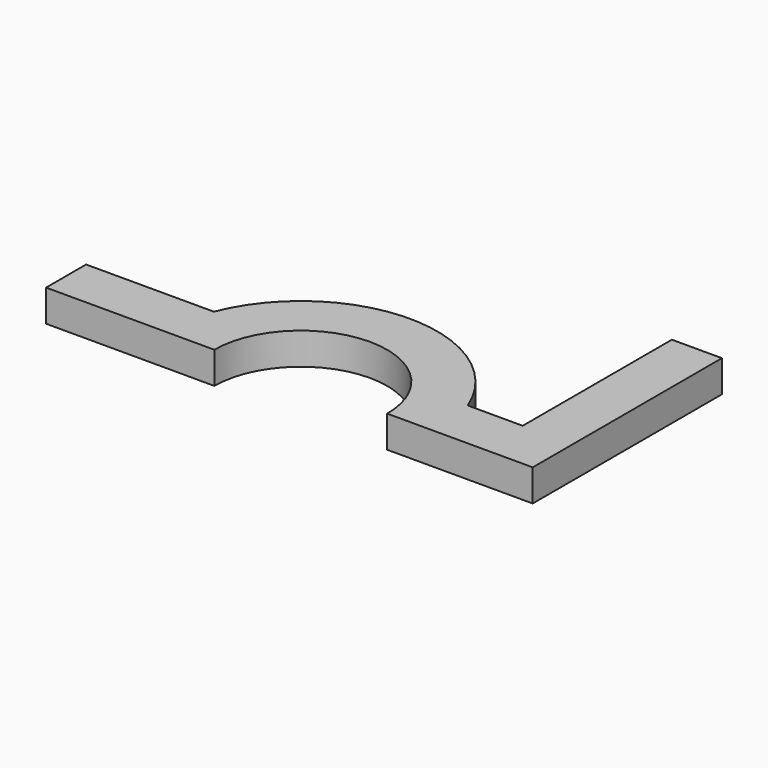
from build123d import *

# Parameters (mm, degrees)
F0_W     = 279.4
F0_H     = 1041.4
F1_DEPTH = 177.8


with BuildPart() as f1:
    # F0 (on Top) → F1 (new body)
    with BuildSketch(Plane.XY):
        with BuildLine():
            Line((-1422.4, 0), (-762, 0))
            ThreePointArc((-762, 0), (-748.6145632978, 142.1978748731), (-708.9285154372, 279.4))
            Line((-708.9285154372, 279.4), (-1422.4, 279.4))
            Line((-1422.4, 279.4), (-1422.4, 0))
        make_face()
        with BuildLine():
            Line((-762, 0), (-482.6, 0))
            ThreePointArc((-482.6, 0), (-459.7844598878, 146.6322285369), (-393.4951079747, 279.4))
            Line((-393.4951079747, 279.4), (-708.9285154372, 279.4))
            ThreePointArc((-708.9285154372, 279.4), (-748.6145632978, 142.1978748731), (-762, 0))
        make_face()
        with BuildLine():
            ThreePointArc((393.4951079747, 279.4), (459.7844598878, 146.6322285369), (482.6, 0))
            Line((482.6, 0), (762, 0))
            ThreePointArc((762, 0), (748.6145632978, 142.1978748731), (708.9285154372, 279.4))
            Line((708.9285154372, 279.4), (393.4951079747, 279.4))
        make_face()
        with BuildLine():
            ThreePointArc((708.9285154372, 279.4), (748.6145632978, 142.1978748731), (762, 0))
            Line((762, 0), (1295.4, 0))
            Line((1295.4, 0), (1295.4, 279.4))
            Line((1295.4, 279.4), (1016, 279.4))
            Line((1016, 279.4), (708.9285154372, 279.4))
        make_face()
        with Locations((1155.7, 800.1)):
            Rectangle(F0_W, F0_H)
        with BuildLine():
            ThreePointArc((-393.4951079747, 279.4), (0, 482.6), (393.4951079747, 279.4))
            Line((393.4951079747, 279.4), (708.9285154372, 279.4))
            ThreePointArc((708.9285154372, 279.4), (0, 762), (-708.9285154372, 279.4))
            Line((-708.9285154372, 279.4), (-393.4951079747, 279.4))
        make_face()
    extrude(amount=-F1_DEPTH)


solid = f1.part
